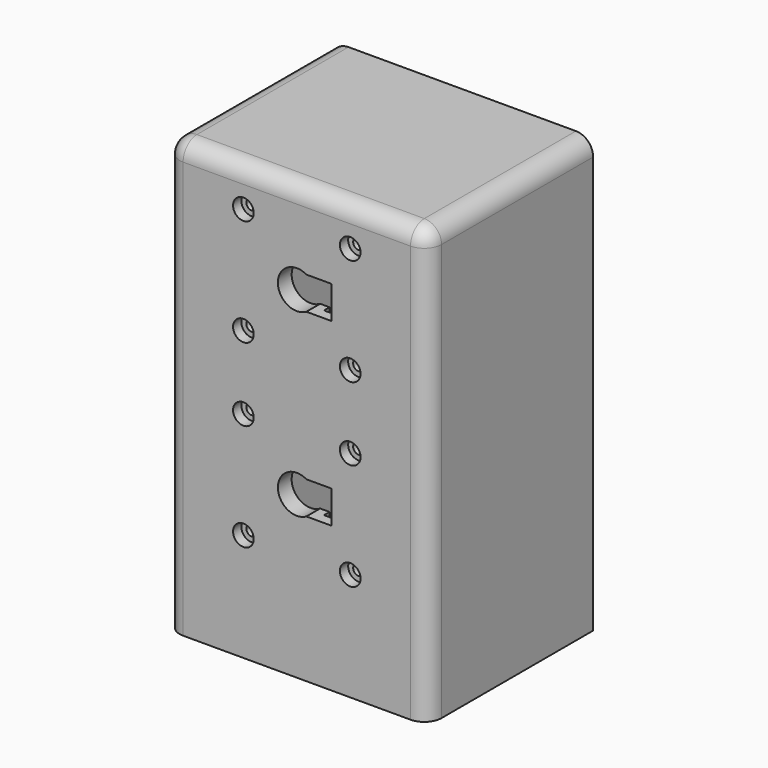
from build123d import *

# Parameters (mm, degrees)
F0_W           = 70
F0_H           = 120
F0_R           = 5.5
F1_DEPTH       = 5
F2_D           = 3.1
F2_DEPTH       = 5
F2_CBORE_D     = 6
F2_CBORE_DEPTH = 3
F2_TIP         = 0.9313339595
F3_W           = 13.85
F3_H           = 16.5
F3_R           = 0.5
F4_DEPTH       = 2
F5_DEPTH       = 5
F3_R_2         = 1.55
F6_DEPTH       = 4
F0_W_2         = 76
F0_H_2         = 126
F7_DEPTH       = 60
F8_R           = 5
F9_W           = 11.5
F9_H           = 3
F10_DEPTH      = 3


with BuildPart() as f1:
    # F0 (on Front) → F1 (new body)
    with BuildSketch(Plane.XZ):
        Rectangle(F0_W, F0_H)
        with Locations((0, -16.15)):
            Circle(F0_R, mode=Mode.SUBTRACT)
        with Locations((0, 36.15)):
            Circle(F0_R, mode=Mode.SUBTRACT)
    extrude(amount=-F1_DEPTH)

    # F2
    with Locations(Plane.XZ):
        with Locations((15.5, 51.65), (-15.5, 51.65), (-15.5, 20.65), (15.5, 20.65), (15.5, -0.65), (-15.5, -0.65), (-15.5, -31.65), (15.5, -31.65)):
            CounterBoreHole(F2_D / 2, F2_CBORE_D / 2, F2_CBORE_DEPTH, depth=F2_DEPTH)
            with Locations((0, 0, -(F2_DEPTH + F2_TIP / 2))):  # 118° drill point
                Cone(0, F2_D / 2, F2_TIP, mode=Mode.SUBTRACT)

    # F3 (on face) → F4 (cut)
    with BuildSketch(Plane(origin=(0, 5, 0), x_dir=(-1, 0, 0), z_dir=(0, 1, 0))):
        with BuildLine():
            ThreePointArc((-8.0117101795, 27.9), (-11.5, 36.15), (-8.0117101795, 44.4))
            Line((-8.0117101795, 44.4), (-21.15, 44.4))
            Line((-21.15, 44.4), (-21.15, 27.9))
            Line((-21.15, 27.9), (-8.0117101795, 27.9))
        make_face()
        with Locations((-28.075, 36.15)):
            Rectangle(F3_W, F3_H)
        with BuildLine():
            Line((-5.5, 44.4), (-8.0117101795, 44.4))
            ThreePointArc((-8.0117101795, 44.4), (-11.5, 36.15), (-8.0117101795, 27.9))
            Line((-8.0117101795, 27.9), (-5.5, 27.9))
            Line((-5.5, 27.9), (-5.5, 31.4))
            Line((-5.5, 31.4), (-10, 31.4))
            Line((-10, 31.4), (-10, 40.9))
            Line((-10, 40.9), (-5.5, 40.9))
            Line((-5.5, 40.9), (-5.5, 44.4))
        make_face()
        with Locations((-7.5, 29.9)):
            Circle(F3_R, mode=Mode.SUBTRACT)
        with Locations((-7.5, 42.4)):
            Circle(F3_R, mode=Mode.SUBTRACT)
        with Locations((-28.075, -16.15)):
            Rectangle(F3_W, F3_H)
        with BuildLine():
            Line((-8.0117101795, -7.9), (-21.15, -7.9))
            Line((-21.15, -7.9), (-21.15, -24.4))
            Line((-21.15, -24.4), (-8.0117101795, -24.4))
            ThreePointArc((-8.0117101795, -24.4), (-11.5, -16.15), (-8.0117101795, -7.9))
        make_face()
        with BuildLine():
            Line((-5.5, -7.9), (-8.0117101795, -7.9))
            ThreePointArc((-8.0117101795, -7.9), (-11.5, -16.15), (-8.0117101795, -24.4))
            Line((-8.0117101795, -24.4), (-5.5, -24.4))
            Line((-5.5, -24.4), (-5.5, -20.9))
            Line((-5.5, -20.9), (-10, -20.9))
            Line((-10, -20.9), (-10, -11.4))
            Line((-10, -11.4), (-5.5, -11.4))
            Line((-5.5, -11.4), (-5.5, -7.9))
        make_face()
        with Locations((-7.5, -22.4)):
            Circle(F3_R, mode=Mode.SUBTRACT)
        with Locations((-7.5, -9.9)):
            Circle(F3_R, mode=Mode.SUBTRACT)
    extrude(amount=-F4_DEPTH, mode=Mode.SUBTRACT)

    # F3 (on face) → F5 (cut)
    with BuildSketch(Plane(origin=(0, 5, 0), x_dir=(-1, 0, 0), z_dir=(0, 1, 0))):
        with BuildLine():
            Line((-2.7726341266, 40.9), (-5.5, 40.9))
            Line((-5.5, 40.9), (-10, 40.9))
            Line((-10, 40.9), (-10, 31.4))
            Line((-10, 31.4), (-5.5, 31.4))
            Line((-5.5, 31.4), (-2.7726341266, 31.4))
            ThreePointArc((-2.7726341266, 31.4), (-5.5, 36.15), (-2.7726341266, 40.9))
        make_face()
        with BuildLine():
            Line((-2.7726341266, -11.4), (-5.5, -11.4))
            Line((-5.5, -11.4), (-10, -11.4))
            Line((-10, -11.4), (-10, -20.9))
            Line((-10, -20.9), (-5.5, -20.9))
            Line((-5.5, -20.9), (-2.7726341266, -20.9))
            ThreePointArc((-2.7726341266, -20.9), (-5.5, -16.15), (-2.7726341266, -11.4))
        make_face()
    extrude(amount=-F5_DEPTH, mode=Mode.SUBTRACT)

    # F3 (on face) → F6 (join)
    with BuildSketch(Plane(origin=(0, 5, 0), x_dir=(-1, 0, 0), z_dir=(0, 1, 0))):
        with BuildLine():
            ThreePointArc((-8.0117101795, 44.4), (4.4785786214, 46.7420882517), (11.5, 36.15))
            ThreePointArc((11.5, 36.15), (4.4785786214, 25.5579117483), (-8.0117101795, 27.9))
            Line((-8.0117101795, 27.9), (-21.15, 27.9))
            Line((-21.15, 27.9), (-21.15, 15))
            Line((-21.15, 15), (21.15, 15))
            Line((21.15, 15), (21.15, 57.3))
            Line((21.15, 57.3), (-21.15, 57.3))
            Line((-21.15, 57.3), (-21.15, 44.4))
            Line((-21.15, 44.4), (-8.0117101795, 44.4))
        make_face()
        with Locations((-15.5, 20.65)):
            Circle(F3_R_2, mode=Mode.SUBTRACT)
        with Locations((-15.5, 51.65)):
            Circle(F3_R_2, mode=Mode.SUBTRACT)
        with Locations((15.5, 20.65)):
            Circle(F3_R_2, mode=Mode.SUBTRACT)
        with Locations((15.5, 51.65)):
            Circle(F3_R_2, mode=Mode.SUBTRACT)
        with BuildLine():
            Line((-21.15, 5), (-21.15, -7.9))
            Line((-21.15, -7.9), (-8.0117101795, -7.9))
            ThreePointArc((-8.0117101795, -7.9), (4.4785786214, -5.5579117483), (11.5, -16.15))
            ThreePointArc((11.5, -16.15), (4.4785786214, -26.7420882517), (-8.0117101795, -24.4))
            Line((-8.0117101795, -24.4), (-21.15, -24.4))
            Line((-21.15, -24.4), (-21.15, -37.3))
            Line((-21.15, -37.3), (21.15, -37.3))
            Line((21.15, -37.3), (21.15, 5))
            Line((21.15, 5), (-21.15, 5))
        make_face()
        with Locations((-15.5, -31.65)):
            Circle(F3_R_2, mode=Mode.SUBTRACT)
        with Locations((-15.5, -0.65)):
            Circle(F3_R_2, mode=Mode.SUBTRACT)
        with Locations((15.5, -31.65)):
            Circle(F3_R_2, mode=Mode.SUBTRACT)
        with Locations((15.5, -0.65)):
            Circle(F3_R_2, mode=Mode.SUBTRACT)
    extrude(amount=F6_DEPTH)

    # F0 (on Front) → F7 (join)
    with BuildSketch(Plane.XZ):
        Rectangle(F0_W_2, F0_H_2)
        Rectangle(F0_W, F0_H, mode=Mode.SUBTRACT)
    extrude(amount=-F7_DEPTH)

    # F8
    f8_edges = [f1.edges().sort_by_distance(p)[0] for p in [
        (38, 30, 63),
        (38, 0, 0),
        (0, 0, 63),
        (-38, 30, 63),
        (-38, 0, 0),
    ]]
    fillet(f8_edges, radius=F8_R)

    # F9 (on face) → F10 (join)
    with BuildSketch(Plane(origin=(0, 60, 0), x_dir=(-1, 0, 0), z_dir=(0, 1, 0))):
        with Locations((-27.25, -61.5)):
            Rectangle(F9_W, F9_H)
    extrude(amount=F10_DEPTH)


solid = f1.part
